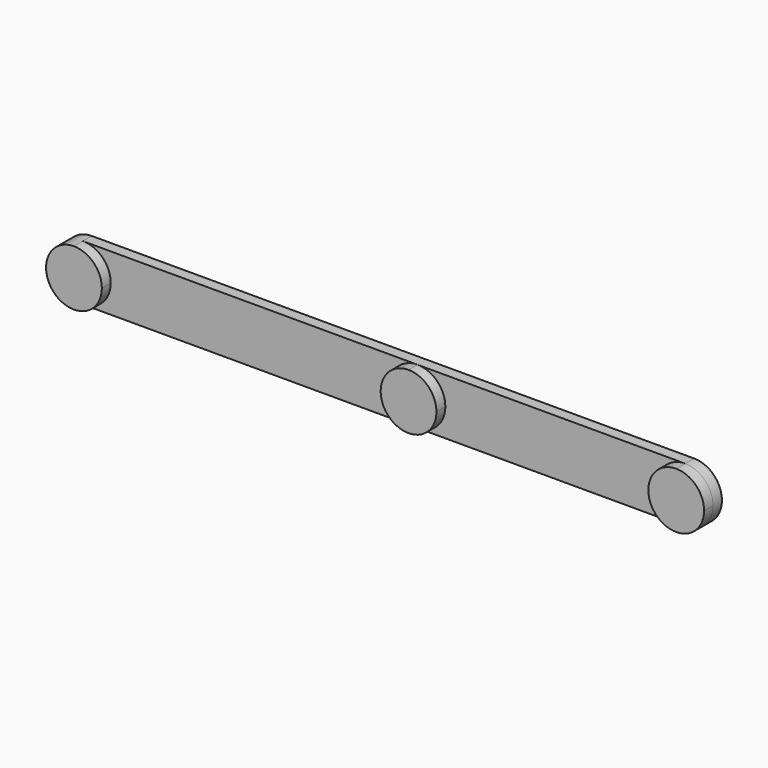
from build123d import *

# Parameters (mm, degrees)
F1_DEPTH = 25.4
F3_DEPTH = 25.4


with BuildPart() as f1:
    # F0 (on Front) → F1 (new body)
    with BuildSketch(Plane.XZ):
        with BuildLine():
            ThreePointArc((0, 127), (-63.5, 63.5), (0, 0))
            Line((0, 0), (1371.6, 0))
            ThreePointArc((1371.6, 0), (1435.1, 63.5), (1371.6, 127))
            Line((1371.6, 127), (0, 127))
        make_face()
    extrude(amount=F1_DEPTH)

    # F2 (on face) → F3 (join)
    with BuildSketch(Plane.XZ.offset(25.4)):
        with BuildLine():
            ThreePointArc((0, 0), (44.901281, 18.598719), (63.5, 63.5))
            ThreePointArc((63.5, 63.5), (44.901281, 108.401281), (0, 127))
            ThreePointArc((0, 127), (-63.5, 63.5), (0, 0))
        make_face()
        with BuildLine():
            ThreePointArc((825.5, 63.5), (806.901281, 108.401281), (762, 127))
            ThreePointArc((762, 127), (698.5, 63.5), (762, 0))
            ThreePointArc((762, 0), (806.901281, 18.598719), (825.5, 63.5))
        make_face()
        with BuildLine():
            ThreePointArc((1435.1, 63.5), (1416.501281, 108.401281), (1371.6, 127))
            ThreePointArc((1371.6, 127), (1308.1, 63.5), (1371.6, 0))
            ThreePointArc((1371.6, 0), (1416.501281, 18.598719), (1435.1, 63.5))
        make_face()
    extrude(amount=F3_DEPTH)


solid = f1.part
